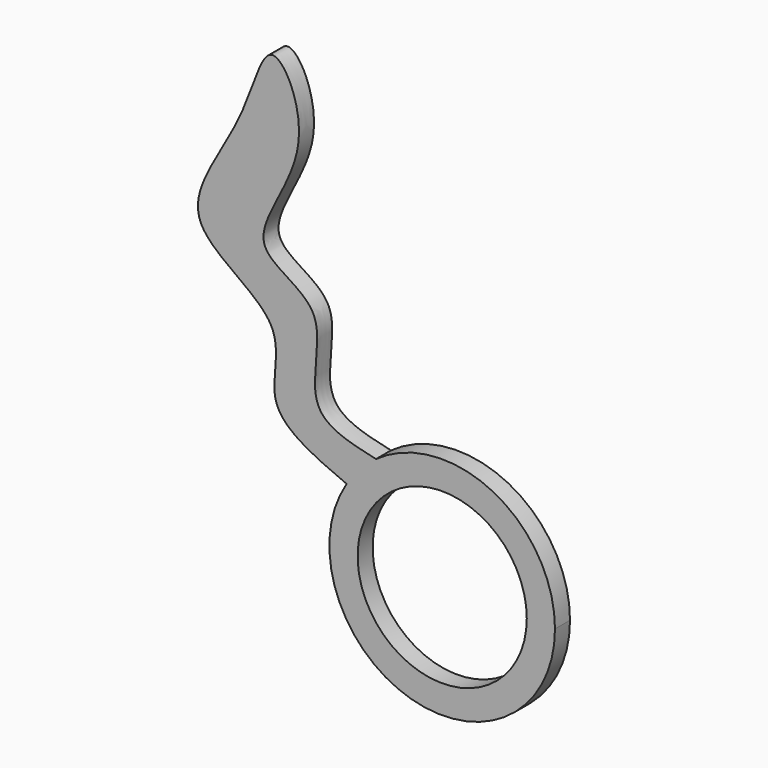
from build123d import *

# Parameters (mm, degrees)
F0_R     = 4.5
F1_DEPTH = 1


with BuildPart() as f1:
    # F0 (on Front) → F1 (new body)
    with BuildSketch(Plane.XZ):
        with BuildLine():
            add(Edge.make_bspline(
                [(-3.5338121051, 4.8489351414), (-3.5228614313, 4.8336937672), (-3.5485422253, 4.8196465646), (-3.5803694153, 4.8146604086)],
                knots=[0.988598239, 0.988598239, 0.988598239, 0.988598239, 1, 1, 1, 1], degree=3))
            ThreePointArc((-3.5803694153, 4.8146604086), (-4.4079973979, 4.0705723112), (-5.0839614742, 3.1864299347))
            ThreePointArc((-5.0839614742, 3.1864299347), (-1.657744123, -5.7664446952), (6, 0))
            ThreePointArc((6, 0), (2.7200300889, 5.348031069), (-3.5338121051, 4.8489351414))
        make_face()
        Circle(F0_R, mode=Mode.SUBTRACT)
        with BuildLine():
            ThreePointArc((-5.0839614742, 3.1864299347), (-4.4079973979, 4.0705723112), (-3.5803694153, 4.8146604086))
            ThreePointArc((-3.5803694153, 4.8146604086), (-3.5571320422, 4.8318538507), (-3.5338121051, 4.8489351414))
            add(Edge.make_bspline(
                [(-5.0839614742, 3.1864299347), (-6.7589549684, 3.8965052265), (-9.9034764031, 5.2293604135), (-7.7221657623, 9.8649429281), (-15.01615026, 12.5958882978), (-10.4279432311, 17.967819907), (-9.294998129, 23.8373424611), (-6.3098648855, 17.8413157235), (-11.3772814816, 12.5391534636), (-5.3495078856, 11.2135521019), (-8.1229483161, 5.3480357247), (-3.6139245836, 4.9604373455), (-3.5338121051, 4.8489351414)],
                knots=[0, 0, 0, 0, 0.1010830381, 0.1901025127, 0.2991484423, 0.4140720852, 0.5083031246, 0.6023496966, 0.7146932068, 0.8042888932, 0.9051857159, 0.988598239, 0.988598239, 0.988598239, 0.988598239], degree=3))
        make_face()
        with BuildLine():
            ThreePointArc((-3.5338121051, 4.8489351414), (-3.5571320422, 4.8318538507), (-3.5803694153, 4.8146604086))
            add(Edge.make_bspline(
                [(-3.5338121051, 4.8489351414), (-3.5228614313, 4.8336937672), (-3.5485422253, 4.8196465646), (-3.5803694153, 4.8146604086)],
                knots=[0.988598239, 0.988598239, 0.988598239, 0.988598239, 1, 1, 1, 1], degree=3))
        make_face()
    extrude(amount=F1_DEPTH)


solid = f1.part
